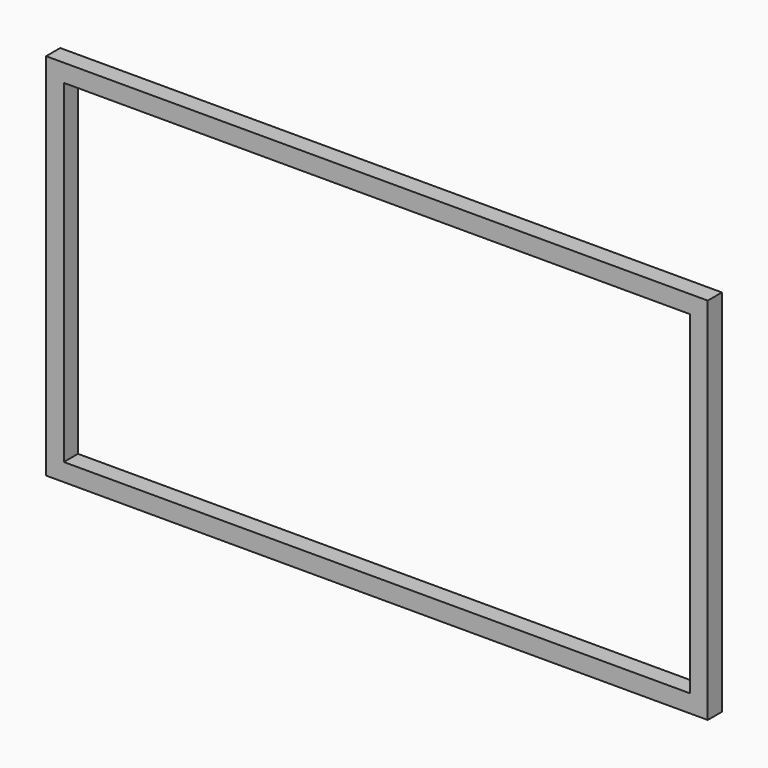
from build123d import *

# Parameters (mm, degrees)
F0_W     = 241.3
F0_H     = 38.1
F1_DEPTH = 38.1


with BuildPart() as f1:
    # F0 (on Front) → F1 (new body)
    with BuildSketch(Plane.XZ):
        Polygon((711.2, 0), (711.2, 396.875), (241.3, 396.875), (241.3, 358.775), (673.1, 358.775), (673.1, 0), align=None)
        with Locations((120.65, 377.825)):
            Rectangle(F0_W, F0_H)
        Polygon((711.2, -396.875), (711.2, 0), (673.1, 0), (673.1, -358.775), (241.3, -358.775), (241.3, -396.875), align=None)
        with Locations((-120.65, 377.825)):
            Rectangle(F0_W, F0_H)
        Polygon((-241.3, 358.775), (-241.3, 396.875), (-711.2, 396.875), (-711.2, 0), (-673.1, 0), (-673.1, 358.775), align=None)
        with Locations((120.65, -377.825)):
            Rectangle(F0_W, F0_H)
        with Locations((-120.65, -377.825)):
            Rectangle(F0_W, F0_H)
        Polygon((-673.1, 0), (-711.2, 0), (-711.2, -396.875), (-241.3, -396.875), (-241.3, -358.775), (-673.1, -358.775), align=None)
    extrude(amount=F1_DEPTH)


solid = f1.part
